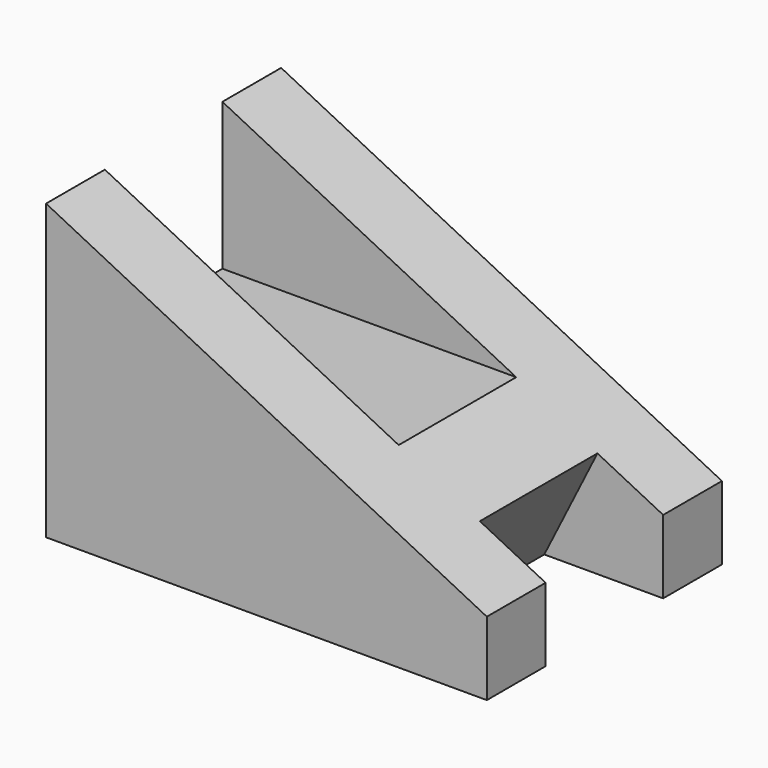
from build123d import *

# Parameters (mm, degrees)
F1_DEPTH = 20
F3_DEPTH = 17.88954382
F4_W     = 10
F4_H     = 5
F5_DEPTH = 2.501
F7_DEPTH = 30.001


with BuildPart() as f1:
    # F0 (on Front) → F1 (new body)
    with BuildSketch(Plane.XZ):
        Polygon((0, 20), (0, 0), (30, 0), (30, 5), align=None)
    extrude(amount=F1_DEPTH)

    # F2 (on face) → F3 (cut, through all)
    with BuildSketch(Plane(origin=(8, 0, 16), x_dir=(0.894427191, 0, -0.4472135955), z_dir=(0.4472135955, 0, 0.894427191))):
        Polygon((24.5967477525, -15), (24.5967477525, -10), (24.5967477525, -5), (19.5967477525, -5), (19.5967477525, -10), (19.5967477525, -15), align=None)
    extrude(amount=-F3_DEPTH, mode=Mode.SUBTRACT)

    # F4 (on face) → F5 (cut, through all)
    with BuildSketch(Plane.YZ.offset(30)):
        with Locations((-10, 2.5)):
            Rectangle(F4_W, F4_H)
    extrude(amount=-F5_DEPTH, mode=Mode.SUBTRACT)

    # F6 (on face) → F7 (cut, through all)
    with BuildSketch(Plane(origin=(0, 0, 0), x_dir=(0, -1, 0), z_dir=(-1, 0, 0))):
        Polygon((15, 20), (10, 20), (5, 20), (5, 10), (10, 10), (15, 10), align=None)
    extrude(amount=-F7_DEPTH, mode=Mode.SUBTRACT)


solid = f1.part
